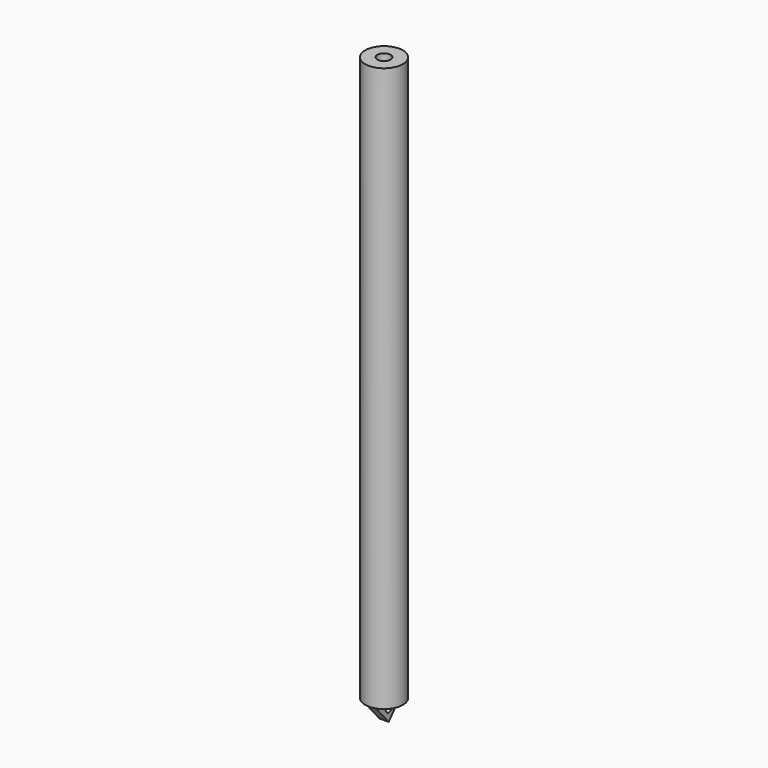
from build123d import *

# Parameters (mm, degrees)
F0_R     = 50
F1_DEPTH = 1500
F2_R     = 17.5
F3_DEPTH = 1000
F5_DEPTH = 12.5
F6_R     = 10
F7_DEPTH = 12.5


with BuildPart() as f1:
    # F0 (on Top) → F1 (new body)
    with BuildSketch(Plane.XY):
        Circle(F0_R)
    extrude(amount=F1_DEPTH)

    # F2 (on face) → F3 (cut)
    with BuildSketch(Plane.XY.offset(1500)):
        Circle(F2_R)
    extrude(amount=-F3_DEPTH, mode=Mode.SUBTRACT)


with BuildPart() as f5:
    # F4 (on Right) → F5 (new body, symmetric)
    with BuildSketch(Plane.YZ):
        Polygon((45, 0), (-45, 0), (0, -51.95892), align=None)
    extrude(amount=F5_DEPTH, both=True)

    # F6 (on Right) → F7 (cut, symmetric)
    with BuildSketch(Plane.YZ):
        with Locations((0, -20.066756)):
            Circle(F6_R)
    extrude(amount=F7_DEPTH, both=True, mode=Mode.SUBTRACT)


solid = Compound([f1.part, f5.part])
